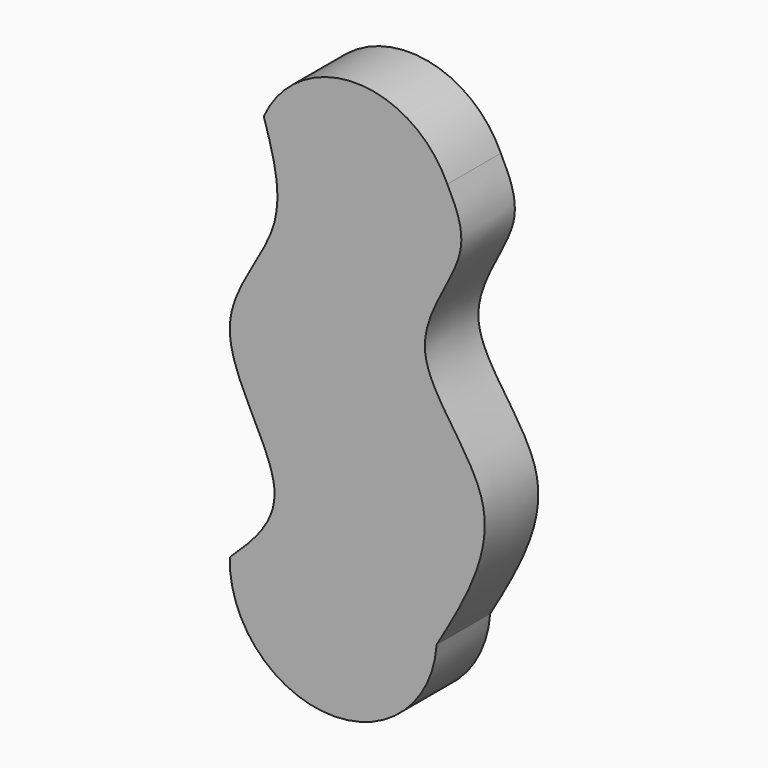
from build123d import *

# Parameters (mm, degrees)
F1_DEPTH = 12.7


with BuildPart() as f1:
    # F0 (on Front) → F1 (new body)
    with BuildSketch(Plane.XZ):
        with BuildLine():
            add(Edge.make_bspline(
                [(-17.1450003982, -21.7538699508), (-12.7216225008, -17.5304296248), (-2.8060218773, -8.0630161453), (-24.2615200167, 16.5020686979), (-5.0217780107, 35.6056984223), (-8.8689716855, 48.0956212912), (-10.6925806031, 54.0159717202)],
                knots=[0, 0, 0, 0, 0.2251935693, 0.5048018839, 0.7652710581, 1, 1, 1, 1], degree=3))
            ThreePointArc((-17.1450003982, -21.7538699508), (1.5870605944, -41.8824939207), (22.1225824207, -23.5974192619))
            add(Edge.make_bspline(
                [(24.1504833102, 54.0159717202), (25.8125721153, 50.6835583381), (29.6971998382, 42.8950542772), (12.894939416, 23.9223700535), (37.8783178698, 3.430972189), (27.4993590046, -14.373754475), (22.1225824207, -23.5974192619)],
                knots=[0, 0, 0, 0, 0.1842165483, 0.4305502258, 0.7049989068, 1, 1, 1, 1], degree=3))
            ThreePointArc((24.1504833102, 54.0159717202), (6.7289513536, 65.2725137008), (-10.6925806031, 54.0159717202))
        make_face()
    extrude(amount=F1_DEPTH)


solid = f1.part
